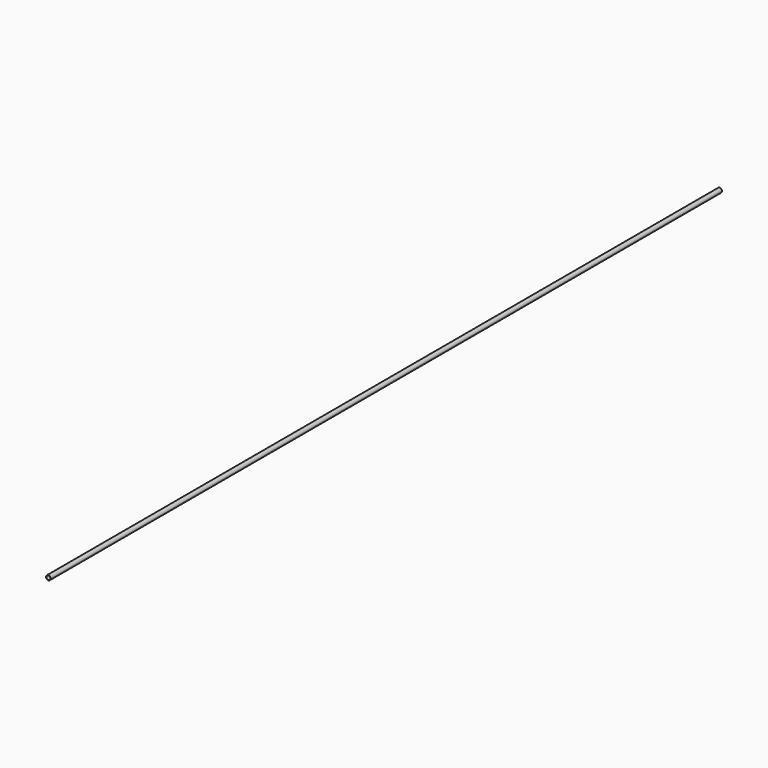
from build123d import *

# Parameters (mm, degrees)
CYLINDER_IN_R      = 25.5
CYLINDER_IN_DEPTH  = 10349
CYLINDER_OUT_R     = 28
CYLINDER_OUT_DEPTH = 10347


with BuildPart() as cylinder_in:
    # cylinder_in → cylinder_in (new body)
    with BuildSketch(Plane(origin=(0, -1, 647), x_dir=(1, 0, 0), z_dir=(0, 1, 0))):
        Circle(CYLINDER_IN_R)
    extrude(amount=CYLINDER_IN_DEPTH)


with BuildPart() as tube_glass_glass1:
    # cylinder_out → cylinder_out (new body)
    with BuildSketch(Plane(origin=(0, 0, 647), x_dir=(1, 0, 0), z_dir=(0, 1, 0))):
        Circle(CYLINDER_OUT_R)
    extrude(amount=CYLINDER_OUT_DEPTH)

    # tube_glass: cut cylinder_in
    add(cylinder_in.part, mode=Mode.SUBTRACT)


solid = tube_glass_glass1.part
